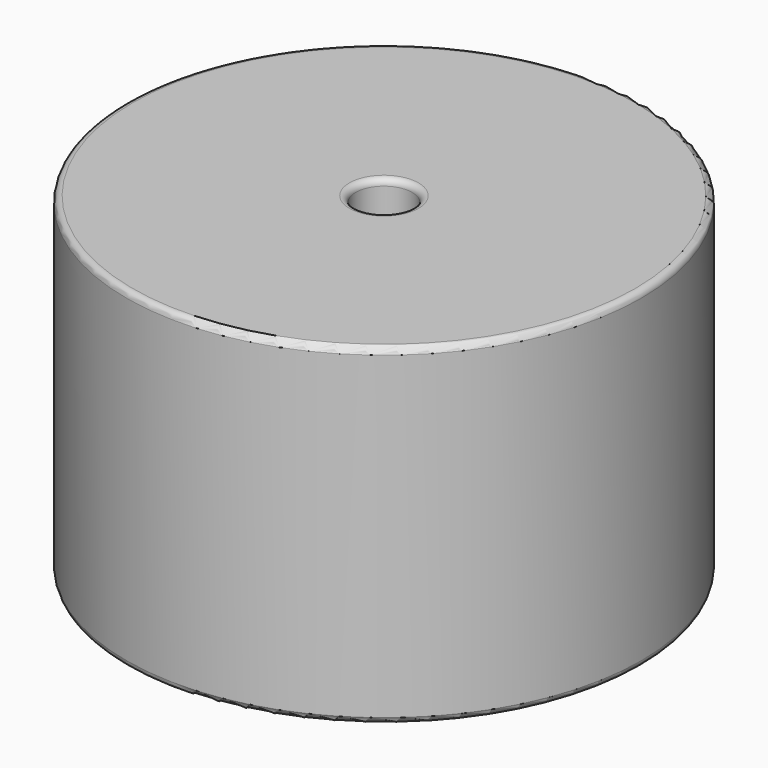
from build123d import *

# Parameters (mm, degrees)
SKETCH001_R       = 0.95
PAD001_DEPTH      = 13.08
PAD001_DEPTH_BACK = 3.5
SKETCH_R          = 20.32
SKETCH_R_2        = 2.225
PAD_DEPTH         = 26.16
FILLET_R          = 0.5


with BuildPart() as pad001:
    # Sketch001 → Pad001 (new body, two sides)
    with BuildSketch(Plane.XY.offset(0.5)) as pad001_sk:
        Circle(SKETCH001_R)
        with Locations((27.94, 0)):
            Circle(SKETCH001_R)
    extrude(amount=PAD001_DEPTH)
    extrude(pad001_sk.sketch, amount=-PAD001_DEPTH_BACK)


with BuildPart() as obj1:
    # Sketch → Pad (new body)
    with BuildSketch(Plane.XY.offset(0.1)):
        with Locations((13.97, 0)):
            Circle(SKETCH_R)
        with Locations((13.97, 0)):
            Circle(SKETCH_R_2, mode=Mode.SUBTRACT)
    extrude(amount=PAD_DEPTH)

    # Fillet
    fillet_edges = [obj1.edges().sort_by_distance(p)[0] for p in [
        (11.745, 0, 26.26),
        (-6.35, 0, 26.26),
        (-6.35, 0, 0.1),
    ]]
    fillet(fillet_edges, radius=FILLET_R)

    # obj1: union Pad001
    add(pad001.part)


solid = obj1.part
